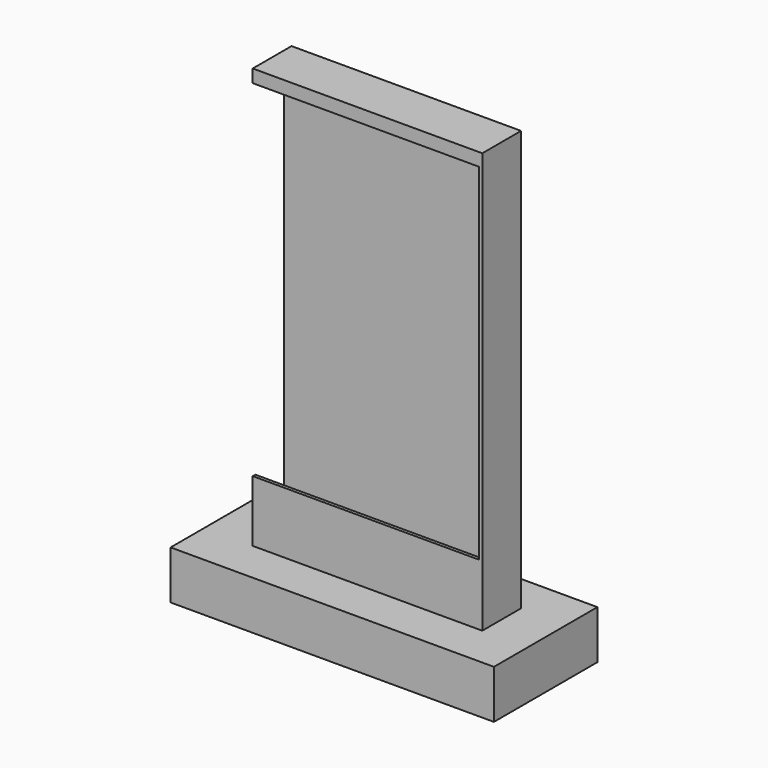
from build123d import *

# Parameters (mm, degrees)
F0_W      = 127
F0_H      = 50.8
F1_DEPTH  = 19.05
F2_W      = 88.9
F2_H      = 17.78
F3_DEPTH  = 165.1
F4_W      = 13.97
F4_H      = 154.94
F5_DEPTH  = 100.584
F6_W      = 88.9
F6_H      = 1.27
F7_DEPTH  = 24.13
F8_W      = 1.27
F8_H      = 19.05
F9_DEPTH  = 165.1
F10_DEPTH = 1.27


with BuildPart() as f1:
    # F0 (on Top) → F1 (new body)
    with BuildSketch(Plane.XY):
        with Locations((63.5, 25.4)):
            Rectangle(F0_W, F0_H)
    extrude(amount=F1_DEPTH)

    # F2 (on face) → F3 (join)
    with BuildSketch(Plane.XY.offset(19.05)):
        with Locations((63.5, 26.67)):
            Rectangle(F2_W, F2_H)
    extrude(amount=F3_DEPTH)

    # F4 (on face) → F5 (cut)
    with BuildSketch(Plane.YZ.offset(107.95)):
        with Locations((24.765, 101.6)):
            Rectangle(F4_W, F4_H)
    extrude(amount=-F5_DEPTH, mode=Mode.SUBTRACT)

    # F6 (on face) → F7 (join)
    with BuildSketch(Plane.XY.offset(19.05)):
        with Locations((63.5, 17.145)):
            Rectangle(F6_W, F6_H)
    extrude(amount=F7_DEPTH)

    # F8 (on face) → F9 (join)
    with BuildSketch(Plane.XY.offset(19.05)):
        with Locations((108.585, 26.035)):
            Rectangle(F8_W, F8_H)
    extrude(amount=F9_DEPTH)

    # F10 (add): a face of the model
    f10_faces = [f1.faces().sort_by_distance(p)[0] for p in [
        (63.5, 17.78, 181.61),
    ]]
    extrude(f10_faces, amount=F10_DEPTH)


solid = f1.part
